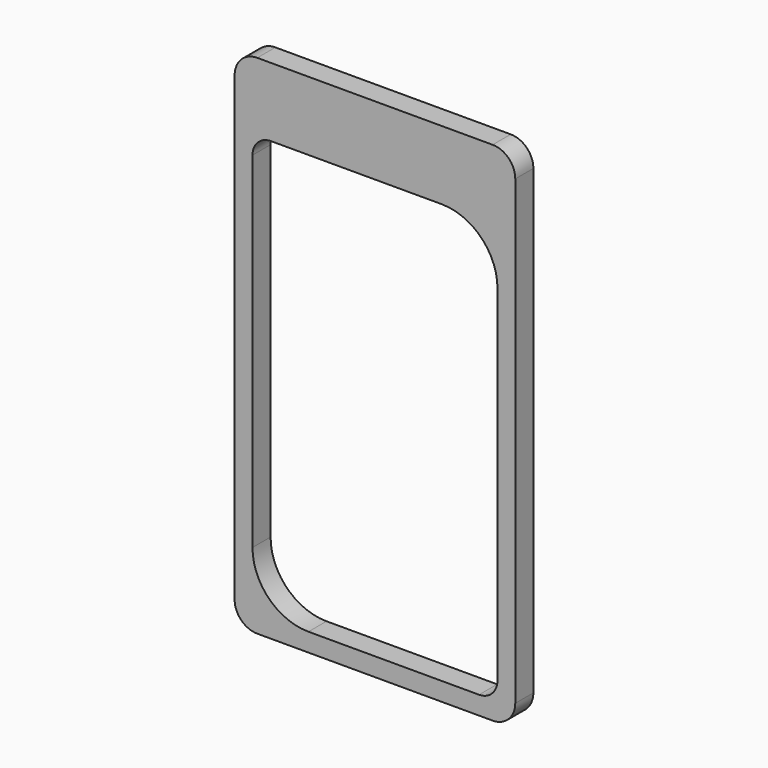
from build123d import *

# Parameters (mm, degrees)
F1_W     = 62
F1_H     = 112
F2_DEPTH = 5
F4_DEPTH = 5
F5_R     = 5


with BuildPart() as f2:
    # F1 (on Front) → F2 (new body)
    with BuildSketch(Plane.XZ):
        with Locations((3.447434, 3.619151)):
            Rectangle(F1_W, F1_H)
    extrude(amount=F2_DEPTH)

    # F3 (on Front) → F4 (cut)
    with BuildSketch(Plane.XZ):
        with BuildLine():
            ThreePointArc((30.516835, 32.039018), (26.895076, 40.782716), (18.151378, 44.404474))
            Line((18.151378, 44.404474), (-19.549268, 44.404474))
            ThreePointArc((-19.549268, 44.404474), (-22.423638, 43.213804), (-23.614078, 40.339338))
            Line((-23.614078, 40.339338), (-23.607969, -35.961972))
            ThreePointArc((-23.607969, -35.961972), (-19.98765, -44.70071), (-11.248622, -48.320329))
            Line((-11.248622, -48.320329), (26.451378, -48.320329))
            ThreePointArc((26.451378, -48.320329), (29.32177, -47.131374), (30.510725, -44.260982))
            Line((30.510725, -44.260982), (30.516835, 32.039018))
        make_face()
    extrude(amount=F4_DEPTH, mode=Mode.SUBTRACT)

    # F5
    f5_edges = [f2.edges().sort_by_distance(p)[0] for p in [
        (-27.552566, -2.5, 59.619151),
        (-27.552566, -2.5, -52.380849),
        (34.447434, -2.5, -52.380849),
        (34.447434, -2.5, 59.619151),
    ]]
    fillet(f5_edges, radius=F5_R)


solid = f2.part
